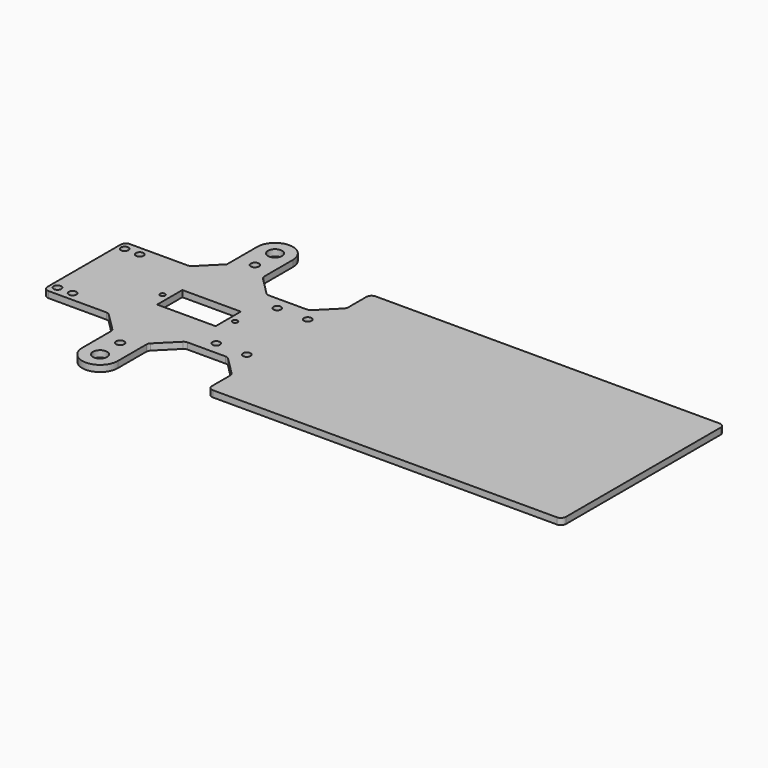
from build123d import *

# Parameters (mm, degrees)
F0_R     = 2.8
F0_R_2   = 1.6
F0_R_3   = 1.5
F0_R_4   = 1
F1_DEPTH = 1.25


with BuildPart() as f1:
    # F0 (on Top) → F1 (new body, symmetric)
    with BuildSketch(Plane.XY):
        with BuildLine():
            Line((-67.989561, 18), (-67.989561, 0))
            Line((-67.989561, 0), (-67.989561, -18))
            ThreePointArc((-67.989561, -18), (-67.403774, -19.414214), (-65.989561, -20))
            Line((-65.989561, -20), (-43.224092, -20))
            ThreePointArc((-43.224092, -20), (-42.458725, -20.152241), (-41.809879, -20.585786))
            Line((-41.809879, -20.585786), (-34.875347, -27.520318))
            ThreePointArc((-34.875347, -27.520318), (-34.441802, -28.169165), (-34.289561, -28.934531))
            Line((-34.289561, -28.934531), (-34.289561, -43.035682))
            ThreePointArc((-34.289561, -43.035682), (-27.289561, -50.035682), (-20.289561, -43.035682))
            Line((-20.289561, -43.035682), (-20.289561, -29.015935))
            ThreePointArc((-20.289561, -29.015935), (-20.13732, -28.250568), (-19.703774, -27.601721))
            Line((-19.703774, -27.601721), (-12.687839, -20.585786))
            ThreePointArc((-12.687839, -20.585786), (-12.038993, -20.152241), (-11.273626, -20))
            Line((-11.273626, -20), (3.694504, -20))
            ThreePointArc((3.694504, -20), (4.459871, -20.152241), (5.108718, -20.585786))
            Line((5.108718, -20.585786), (12.124653, -27.601721))
            ThreePointArc((12.124653, -27.601721), (12.558198, -28.250568), (12.710439, -29.015935))
            Line((12.710439, -29.015935), (12.710439, -38))
            ThreePointArc((12.710439, -38), (13.296226, -39.414214), (14.710439, -40))
            Line((14.710439, -40), (150.010439, -40))
            ThreePointArc((150.010439, -40), (151.424653, -39.414214), (152.010439, -38))
            Line((152.010439, -38), (152.010439, 0))
            Line((152.010439, 0), (152.010439, 38))
            ThreePointArc((152.010439, 38), (151.424653, 39.414214), (150.010439, 40))
            Line((150.010439, 40), (14.710439, 40))
            ThreePointArc((14.710439, 40), (13.296226, 39.414214), (12.710439, 38))
            Line((12.710439, 38), (12.710439, 29.015935))
            ThreePointArc((12.710439, 29.015935), (12.558198, 28.250568), (12.124653, 27.601721))
            Line((12.124653, 27.601721), (5.108718, 20.585786))
            ThreePointArc((5.108718, 20.585786), (4.459871, 20.152241), (3.694504, 20))
            Line((3.694504, 20), (-11.273626, 20))
            ThreePointArc((-11.273626, 20), (-12.038993, 20.152241), (-12.687839, 20.585786))
            Line((-12.687839, 20.585786), (-19.703774, 27.601721))
            ThreePointArc((-19.703774, 27.601721), (-20.13732, 28.250568), (-20.289561, 29.015935))
            Line((-20.289561, 29.015935), (-20.289561, 43.035682))
            ThreePointArc((-20.289561, 43.035682), (-27.289561, 50.035682), (-34.289561, 43.035682))
            Line((-34.289561, 43.035682), (-34.289561, 28.106104))
            Line((-34.289561, 28.106104), (-41.809879, 20.585786))
            ThreePointArc((-41.809879, 20.585786), (-42.458725, 20.152241), (-43.224092, 20))
            Line((-43.224092, 20), (-65.989561, 20))
            ThreePointArc((-65.989561, 20), (-67.403774, 19.414214), (-67.989561, 18))
        make_face()
        with Locations((-27.289561, -43.035682)):
            Circle(F0_R, mode=Mode.SUBTRACT)
        with Locations((-27.289561, -33.135682)):
            Circle(F0_R_2, mode=Mode.SUBTRACT)
        with Locations((-65.254413, -16.519763)):
            Circle(F0_R_3, mode=Mode.SUBTRACT)
        with Locations((-59.297452, -16.519763)):
            Circle(F0_R_3, mode=Mode.SUBTRACT)
        with Locations((-3.989561, -15)):
            Circle(F0_R_3, mode=Mode.SUBTRACT)
        with Locations((8.010439, -15)):
            Circle(F0_R_3, mode=Mode.SUBTRACT)
        with Locations((-37.09171, 0)):
            Circle(F0_R_4, mode=Mode.SUBTRACT)
        Polygon((-34.289561, 0), (-34.289561, 6.2), (-11.289561, 6.2), (-11.289561, 0), (-11.289561, -6.2), (-34.289561, -6.2), align=None, mode=Mode.SUBTRACT)
        with Locations((-65.254413, 16.519763)):
            Circle(F0_R_3, mode=Mode.SUBTRACT)
        with Locations((-59.297452, 16.519763)):
            Circle(F0_R_3, mode=Mode.SUBTRACT)
        with Locations((-8.59171, 0)):
            Circle(F0_R_4, mode=Mode.SUBTRACT)
        with Locations((-3.989561, 15)):
            Circle(F0_R_3, mode=Mode.SUBTRACT)
        with Locations((8.010439, 15)):
            Circle(F0_R_3, mode=Mode.SUBTRACT)
        with Locations((-27.289561, 33.135682)):
            Circle(F0_R_2, mode=Mode.SUBTRACT)
        with Locations((-27.289561, 43.035682)):
            Circle(F0_R, mode=Mode.SUBTRACT)
    extrude(amount=F1_DEPTH, both=True)


solid = f1.part
